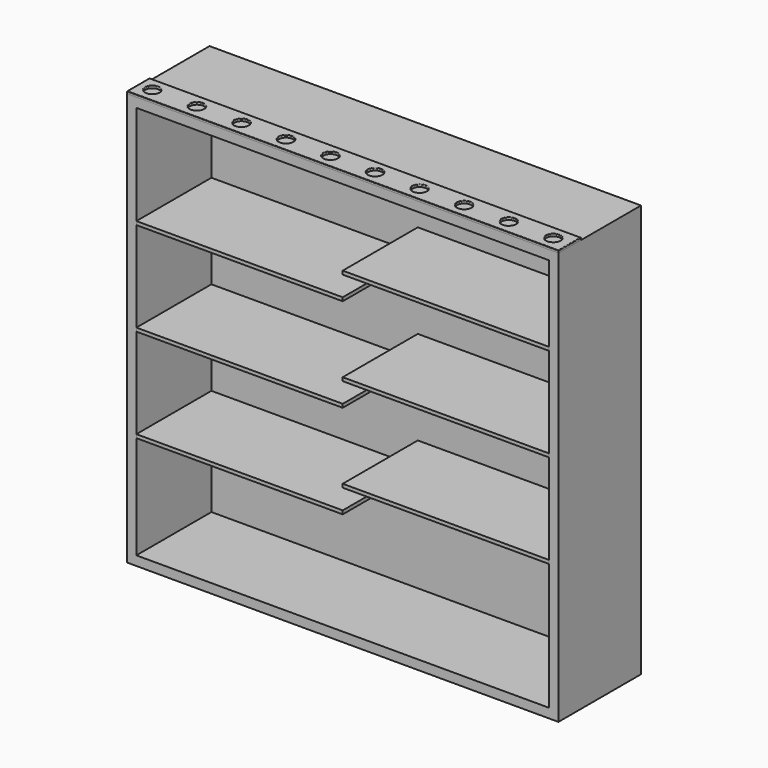
from build123d import *

# Parameters (mm, degrees)
F0_W      = 1168.4
F0_H      = 1117.6
F1_DEPTH  = 279.4
F2_T      = -25.4
F3_W      = 558.8
F3_H      = 9.525
F4_DEPTH  = 254
F9_W      = 1168.4
F9_H      = 76.2
F10_DEPTH = 6.35
F11_R     = 19.05
F12_DEPTH = 6.35
F13_R     = 1.5875


with BuildPart() as f1:
    # F0 (on Front) → F1 (new body)
    with BuildSketch(Plane.XZ):
        Rectangle(F0_W, F0_H)
    extrude(amount=F1_DEPTH)

    # F2
    f2_openings = [f1.faces().sort_by_distance(p)[0] for p in [
        (0, -279.4, 0),
    ]]
    offset(amount=F2_T, openings=f2_openings)


with BuildPart() as f4:
    # F3 (on face) → F4 (new body)
    with BuildSketch(Plane.XZ.offset(25.4)):
        with Locations((-279.4, 4.7625)):
            Rectangle(F3_W, F3_H)
    extrude(amount=F4_DEPTH)


with BuildPart() as f4b:
    # F3 (on face) → F4, piece 2 (new body)
    with BuildSketch(Plane.XZ.offset(25.4)):
        with Locations((279.4, 68.2625)):
            Rectangle(F3_W, F3_H)
    extrude(amount=F4_DEPTH)


with BuildPart() as f5_1:
    # F5: copy of F4
    add(f4.part)


with BuildPart() as f5_2:
    # F5: copy of F4b
    add(f4b.part)


with BuildPart() as f4_1:
    # F6: moved
    add(f4.part.moved(Location((0, 0, 254))))


with BuildPart() as f4b_1:
    # F6: moved
    add(f4b.part.moved(Location((0, 0, 254))))


with BuildPart() as f7_1:
    # F7: copy of F5_1
    add(f5_1.part)


with BuildPart() as f7_2:
    # F7: copy of F5_2
    add(f5_2.part)


with BuildPart() as f5_1_1:
    # F8: moved
    add(f5_1.part.moved(Location((0, 0, -254))))


with BuildPart() as f5_2_1:
    # F8: moved
    add(f5_2.part.moved(Location((0, 0, -254))))


with BuildPart() as f10:
    # F9 (on face) → F10 (new body)
    with BuildSketch(Plane.XY.offset(558.8)):
        with Locations((0, -241.3)):
            Rectangle(F9_W, F9_H)
    extrude(amount=F10_DEPTH)

    # F11 (on face) → F12 (cut, through all)
    with BuildSketch(Plane.XY.offset(565.15)):
        with Locations((-546.1, -241.3)):
            Circle(F11_R)
        with Locations((-425.45, -241.3)):
            Circle(F11_R)
        with Locations((-304.8, -241.3)):
            Circle(F11_R)
        with Locations((-184.15, -241.3)):
            Circle(F11_R)
        with Locations((-63.5, -241.3)):
            Circle(F11_R)
        with Locations((57.15, -241.3)):
            Circle(F11_R)
        with Locations((177.8, -241.3)):
            Circle(F11_R)
        with Locations((298.45, -241.3)):
            Circle(F11_R)
        with Locations((419.1, -241.3)):
            Circle(F11_R)
        with Locations((539.75, -241.3)):
            Circle(F11_R)
    extrude(amount=-F12_DEPTH, mode=Mode.SUBTRACT)

    # F13
    f13_edges = [f10.edges().sort_by_distance(p)[0] for p in [
        (-565.15, -241.3, 565.15),
        (-444.5, -241.3, 565.15),
        (0, -203.2, 565.15),
        (-584.2, -241.3, 565.15),
        (0, -279.4, 565.15),
        (-323.85, -241.3, 565.15),
        (-203.2, -241.3, 565.15),
        (-82.55, -241.3, 565.15),
        (38.1, -241.3, 565.15),
        (158.75, -241.3, 565.15),
        (279.4, -241.3, 565.15),
        (400.05, -241.3, 565.15),
        (520.7, -241.3, 565.15),
        (584.2, -241.3, 565.15),
    ]]
    fillet(f13_edges, radius=F13_R)


solid = Compound([f1.part, f4_1.part, f4b_1.part, f7_1.part, f7_2.part, f5_1_1.part, f5_2_1.part, f10.part])
